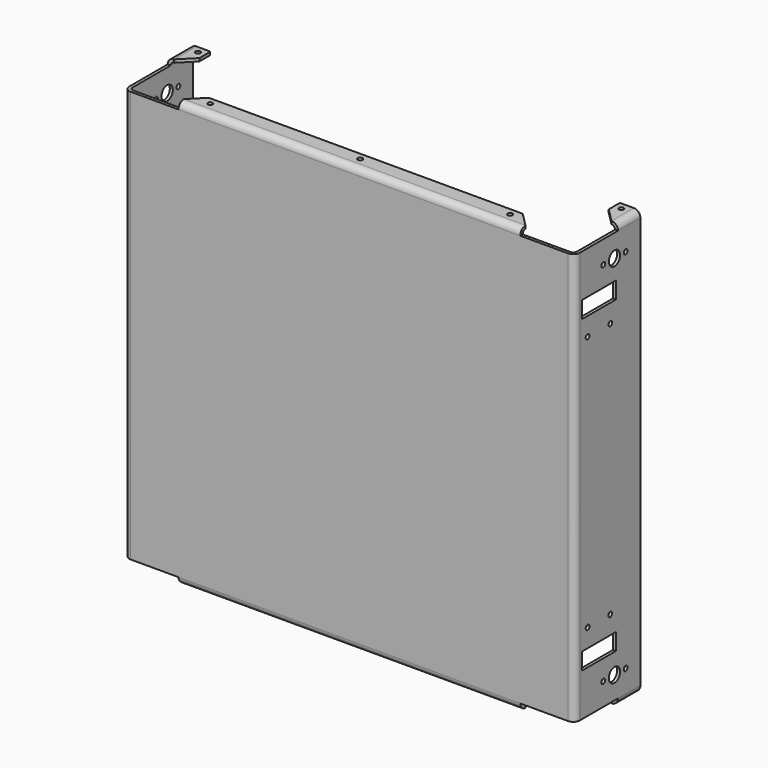
from build123d import *

# Parameters (mm, degrees)
F1_DEPTH  = 233.737836
F2_W      = 1.70942
F2_H      = 15.875
F2_W_2    = 194.007206
F2_H_2    = 1.70942
F3_DEPTH  = 3.69316
F4_W      = 1.70942
F4_H      = 15.875
F4_W_2    = 194.007206
F4_H_2    = 1.70942
F5_DEPTH  = 3.69316
F6_W      = 194.007206
F6_H      = 1.70942
F7_DEPTH  = 9.92124
F8_W      = 15.875
F8_H      = 1.70942
F9_DEPTH  = 9.92124
F10_W     = 15.875
F10_H     = 1.70942
F11_DEPTH = 9.92124
F12_R     = 1.98374
F13_R     = 3.69316
F14_SIZE  = 7.9375
F15_R     = 1.35255
F16_DEPTH = 241.124156
F17_R     = 1.35255
F17_R_2   = 4
F17_W     = 24
F17_H     = 9.532924
F17_H_2   = 9.532925
F18_DEPTH = 255.655496
F19_R     = 0.762
F20_R     = 11.253
F20_R_2   = 1.5
F20_R_3   = 3.5
F20_R_4   = 2.15265
F21_DEPTH = 1.70942


with BuildPart() as f1:
    # F0 (on Top) → F1 (new body)
    with BuildSketch(Plane.XY):
        Polygon((0, 44.989725), (0, 0), (-252.236656, 0), (-252.236656, 44.989725), (-253.946076, 44.989725), (-253.946076, -1.70942), (1.70942, -1.70942), (1.70942, 44.989725), align=None)
    extrude(amount=F1_DEPTH)

    # F2 (on face) → F3 (join)
    with BuildSketch(Plane(origin=(0, 0, 0), x_dir=(1, 0, 0), z_dir=(0, 0, -1))):
        with Locations((0.85471, -37.052225)):
            Rectangle(F2_W, F2_H)
        with Locations((-126.118328, 0.85471)):
            Rectangle(F2_W_2, F2_H_2)
        with Locations((-253.091366, -37.052225)):
            Rectangle(F2_W, F2_H)
    extrude(amount=F3_DEPTH)

    # F4 (on face) → F5 (join)
    with BuildSketch(Plane.XY.offset(233.737836)):
        with Locations((-253.091366, 37.052225)):
            Rectangle(F4_W, F4_H)
        with Locations((0.85471, 37.052225)):
            Rectangle(F4_W, F4_H)
        with Locations((-126.118328, -0.85471)):
            Rectangle(F4_W_2, F4_H_2)
    extrude(amount=F5_DEPTH)

    # F6 (on face) → F7 (join)
    with BuildSketch(Plane(origin=(0, 0, 0), x_dir=(-1, 0, 0), z_dir=(0, 1, 0))):
        with Locations((126.118328, -2.83845)):
            Rectangle(F6_W, F6_H)
        with Locations((126.118328, 236.576286)):
            Rectangle(F6_W, F6_H)
    extrude(amount=F7_DEPTH)

    # F8 (on face) → F9 (join)
    with BuildSketch(Plane.YZ.offset(-252.236656)):
        with Locations((37.052225, 236.576286)):
            Rectangle(F8_W, F8_H)
        with Locations((37.052225, -2.83845)):
            Rectangle(F8_W, F8_H)
    extrude(amount=F9_DEPTH)

    # F10 (on face) → F11 (join)
    with BuildSketch(Plane(origin=(0, 0, 0), x_dir=(0, -1, 0), z_dir=(-1, 0, 0))):
        with Locations((-37.052225, -2.83845)):
            Rectangle(F10_W, F10_H)
        with Locations((-37.052225, 236.576286)):
            Rectangle(F10_W, F10_H)
    extrude(amount=F11_DEPTH)

    # F12
    f12_edges = [f1.edges().sort_by_distance(p)[0] for p in [
        (0, 37.052225, 235.721576),
        (-126.118328, 0, 235.721576),
        (-252.236656, 37.052225, 235.721576),
        (-252.236656, 37.052225, -1.98374),
        (-126.118328, 0, -1.98374),
        (0, 37.052225, -1.98374),
        (0, 0, 116.868918),
        (-252.236656, 0, 116.868918),
    ]]
    fillet(f12_edges, radius=F12_R)

    # F13
    f13_edges = [f1.edges().sort_by_distance(p)[0] for p in [
        (-253.946076, 37.052225, -3.69316),
        (-126.118328, -1.70942, -3.69316),
        (-253.946076, -1.70942, 116.868918),
        (-126.118328, -1.70942, 237.430996),
        (-253.946076, 37.052225, 237.430996),
        (1.70942, 37.052225, -3.69316),
        (1.70942, -1.70942, 116.868918),
        (1.70942, 37.052225, 237.430996),
    ]]
    fillet(f13_edges, radius=F13_R)

    # F14
    f14_edges = [f1.edges().sort_by_distance(p)[0] for p in [
        (-242.315416, 29.114725, 236.576286),
        (-223.121931, 9.92124, 236.576286),
        (-29.114725, 9.92124, 236.576286),
        (-9.92124, 29.114725, 236.576286),
        (-29.114725, 9.92124, -2.83845),
        (-9.92124, 29.114725, -2.83845),
        (-242.315416, 29.114725, -2.83845),
        (-223.121931, 9.92124, -2.83845),
    ]]
    chamfer(f14_edges, length=F14_SIZE)

    # F15 (on face) → F16 (cut, through all)
    with BuildSketch(Plane(origin=(0, 0, -3.69316), x_dir=(1, 0, 0), z_dir=(0, 0, -1))):
        with Locations((-41.020975, -5.95249)):
            Circle(F15_R)
        with Locations((-126.118328, -5.95249)):
            Circle(F15_R)
        with Locations((-211.215681, -5.95249)):
            Circle(F15_R)
        with Locations((-246.284166, -41.020975)):
            Circle(F15_R)
        with Locations((-5.95249, -41.020975)):
            Circle(F15_R)
    extrude(amount=-F16_DEPTH, mode=Mode.SUBTRACT)

    # F17 (on face) → F18 (cut, through all)
    with BuildSketch(Plane(origin=(-253.946076, 0, 0), x_dir=(0, -1, 0), z_dir=(-1, 0, 0))):
        with Locations((-34.594617, 12.78067)):
            Circle(F17_R)
        with Locations((-18.657117, 12.78067)):
            Circle(F17_R)
        with Locations((-18.657117, 220.957165)):
            Circle(F17_R)
        with Locations((-34.594617, 220.957165)):
            Circle(F17_R)
        with Locations((-26.625867, 220.957165)):
            Circle(F17_R_2)
        with Locations((-26.625867, 12.78067)):
            Circle(F17_R_2)
        with Locations((-15.57124, 204.694663)):
            Rectangle(F17_W, F17_H)
        with Locations((-15.57124, 29.043172)):
            Rectangle(F17_W, F17_H_2)
        with Locations((-23.60249, 44.205093)):
            Circle(F17_R)
        with Locations((-7.53999, 44.205093)):
            Circle(F17_R)
        with Locations((-23.60249, 189.532743)):
            Circle(F17_R)
        with Locations((-7.53999, 189.532743)):
            Circle(F17_R)
    extrude(amount=-F18_DEPTH, mode=Mode.SUBTRACT)

    # F19
    f19_edges = [f1.edges().sort_by_distance(p)[0] for p in [
        (-242.315416, 44.989725, -2.83845),
        (-242.315416, 44.989725, 236.576286),
        (-9.92124, 44.989725, 236.576286),
        (-9.92124, 44.989725, -2.83845),
    ]]
    fillet(f19_edges, radius=F19_R)

    # F20 (on face) → F21 (cut, through all)
    with BuildSketch(Plane(origin=(-253.946076, 0, 0), x_dir=(0, -1, 0), z_dir=(-1, 0, 0))):
        with Locations((-23.486732, 116.868918)):
            Circle(F20_R)
        with Locations((-38.986727, 132.368912)):
            Circle(F20_R_2)
        with Locations((-7.986738, 132.368912)):
            Circle(F20_R_2)
        with Locations((-7.986738, 101.368924)):
            Circle(F20_R_2)
        with Locations((-38.986727, 101.368924)):
            Circle(F20_R_2)
        with Locations((-40.239725, 151.07191)):
            Circle(F20_R_3)
        with Locations((-17.840581, 68.833657)):
            Circle(F20_R_4)
        with Locations((-17.840581, 54.546157)):
            Circle(F20_R_4)
    extrude(amount=-F21_DEPTH, mode=Mode.SUBTRACT)


solid = f1.part
